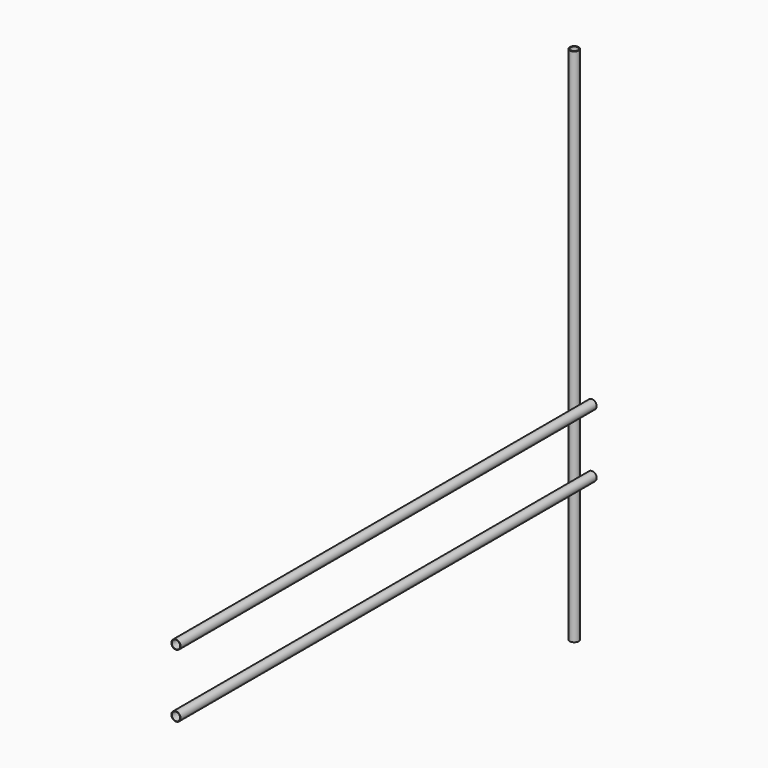
from build123d import *

# Parameters (mm, degrees)
F0_R     = 16
F0_R_2   = 13
F1_DEPTH = 1800
F2_R     = 16
F2_R_2   = 14.4
F3_DEPTH = 1800


with BuildPart() as f1:
    # F0 (on Top) → F1 (new body)
    with BuildSketch(Plane.XY):
        Circle(F0_R)
        Circle(F0_R_2, mode=Mode.SUBTRACT)
    extrude(amount=F1_DEPTH)


with BuildPart() as f3:
    # F2 (on Front) → F3 (new body)
    with BuildSketch(Plane.XZ):
        with Locations((61.523438, 517.682612)):
            Circle(F2_R)
        with Locations((61.523438, 517.682612)):
            Circle(F2_R_2, mode=Mode.SUBTRACT)
        with Locations((61.523438, 736.682612)):
            Circle(F2_R)
        with Locations((61.523438, 736.682612)):
            Circle(F2_R_2, mode=Mode.SUBTRACT)
    extrude(amount=F3_DEPTH)


solid = Compound([f1.part, f3.part])
